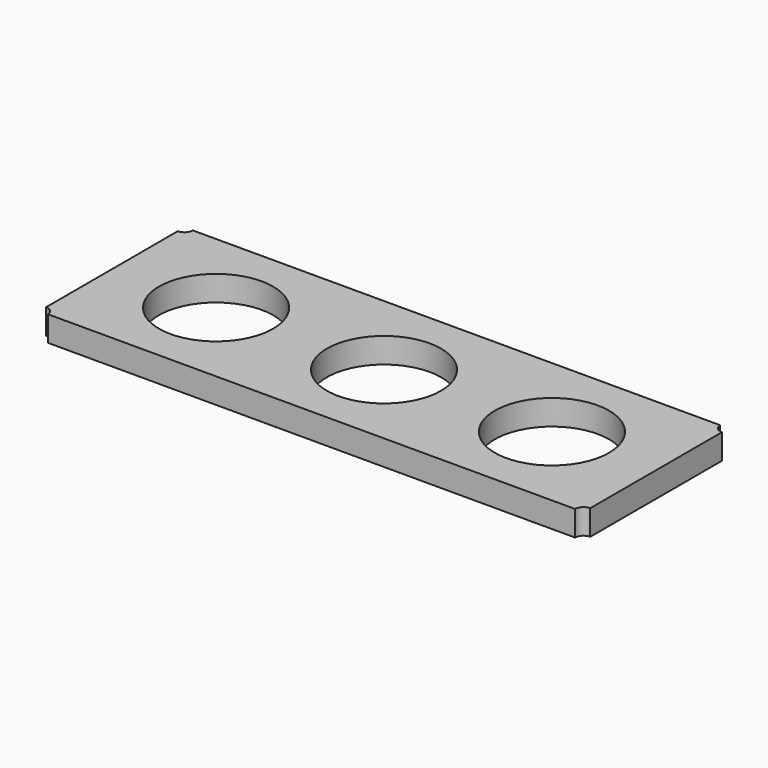
from build123d import *

# Parameters (mm, degrees)
F0_R     = 10.795
F1_DEPTH = 4.7625


with BuildPart() as f1:
    # F0 (on Top) → F1 (new body)
    with BuildSketch(Plane.XY):
        with BuildLine():
            Line((49.8475, 17.145), (-49.8475, 17.145))
            ThreePointArc((-49.8475, 17.145), (-50.312468, 16.022468), (-51.435, 15.5575))
            Line((-51.435, 15.5575), (-51.435, -15.5575))
            ThreePointArc((-51.435, -15.5575), (-50.312468, -16.022468), (-49.8475, -17.145))
            Line((-49.8475, -17.145), (49.8475, -17.145))
            ThreePointArc((49.8475, -17.145), (50.312468, -16.022468), (51.435, -15.5575))
            Line((51.435, -15.5575), (51.435, 15.5575))
            ThreePointArc((51.435, 15.5575), (50.312468, 16.022468), (49.8475, 17.145))
        make_face()
        with Locations((-31.75, 0)):
            Circle(F0_R, mode=Mode.SUBTRACT)
        Circle(F0_R, mode=Mode.SUBTRACT)
        with Locations((31.75, 0)):
            Circle(F0_R, mode=Mode.SUBTRACT)
    extrude(amount=F1_DEPTH)


solid = f1.part
